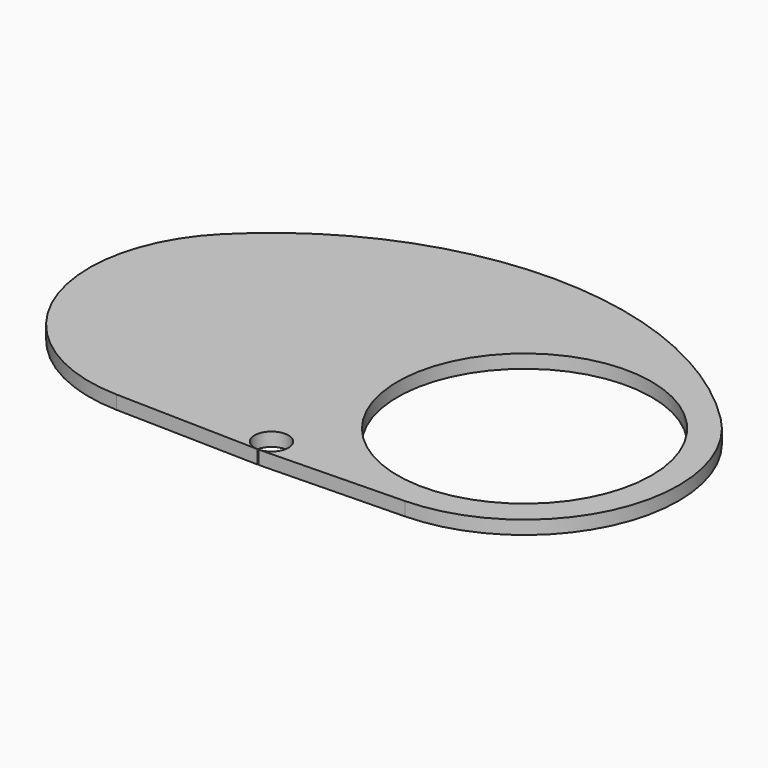
from build123d import *

# Parameters (mm, degrees)
F0_R     = 75
F1_DEPTH = 8


with BuildPart() as f1:
    # F0 (on Top) → F1 (new body)
    with BuildSketch(Plane.XY):
        with BuildLine():
            ThreePointArc((-168.166967, -90.974196), (-117.487432, -76.990459), (-83, -37.309516))
            ThreePointArc((-83, -37.309516), (-48.512568, -76.990459), (2.166967, -90.974196))
            ThreePointArc((2.166967, -90.974196), (84.481738, -33.820644), (64.346717, 64.346717))
            ThreePointArc((64.346717, 64.346717), (-83, 125.379726), (-230.346717, 64.346717))
            ThreePointArc((-230.346717, 64.346717), (-250.481738, -33.820644), (-168.166967, -90.974196))
        make_face()
        with Locations((-166, 0)):
            Circle(F0_R, mode=Mode.SUBTRACT)
        with BuildLine():
            ThreePointArc((-75, 0), (0, 75), (75, 0))
            ThreePointArc((75, 0), (0, -75), (-75, 0))
        make_face(mode=Mode.SUBTRACT)
        with Locations((-166, 0)):
            Circle(F0_R)
        with BuildLine():
            ThreePointArc((2.166967, -90.974196), (-48.512568, -76.990459), (-83, -37.309516))
            ThreePointArc((-83, -37.309516), (-117.487432, -76.990459), (-168.166967, -90.974196))
            Line((-168.166967, -90.974196), (-83.238128, -92.997164))
            ThreePointArc((-83.238128, -92.997164), (-89.98637, -75.845236), (-73, -83))
            ThreePointArc((-73, -83), (-75.845236, -89.98637), (-82.761872, -92.997164))
            Line((-82.761872, -92.997164), (2.166967, -90.974196))
        make_face()
    extrude(amount=F1_DEPTH)


solid = f1.part
